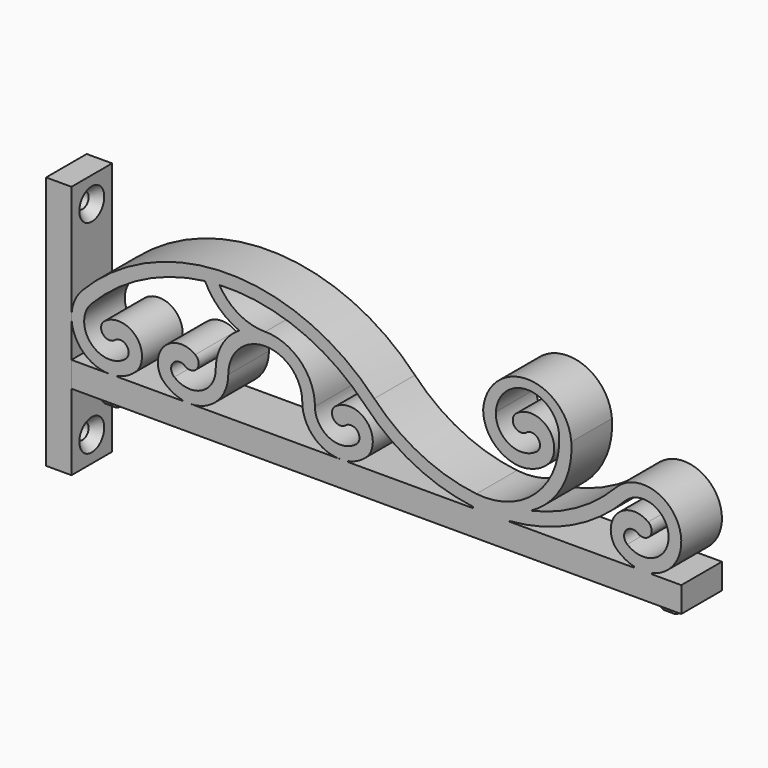
from build123d import *

# Parameters (mm, degrees)
F0_W           = 6.35
F0_H           = 63.5
F1_DEPTH       = 6.35
F2_W           = 3.937
F2_H           = 7.112
F3_DEPTH       = 4.7625
F5_D           = 3.7973
F5_CSINK_D     = 7.7978
F5_CSINK_ANGLE = 82
F8_DEPTH       = 6.35
F11_DEPTH      = 1.143
F14_DEPTH      = 1.143


with BuildPart() as f1:
    # F0 (on Front) → F1 (new body, symmetric)
    with BuildSketch(Plane.XZ):
        Rectangle(F0_W, F0_H)
    extrude(amount=F1_DEPTH, both=True)

    # F2 (on face) → F3 (cut)
    with BuildSketch(Plane(origin=(-3.175, 0, 0), x_dir=(0, -1, 0), z_dir=(-1, 0, 0))):
        with Locations((0, 9.525)):
            Rectangle(F2_W, F2_H)
        with Locations((0, -9.525)):
            Rectangle(F2_W, F2_H)
    extrude(amount=-F3_DEPTH, mode=Mode.SUBTRACT)

    # F5 (through all)
    with Locations(Plane.YZ.offset(3.175)):
        with Locations((0, 25.4), (0, -25.4)):
            CounterSinkHole(F5_D / 2, F5_CSINK_D / 2, counter_sink_angle=F5_CSINK_ANGLE)


with BuildPart() as f8:
    # F7 (on Front) → F8 (new body, symmetric)
    with BuildSketch(Plane.XZ):
        with BuildLine():
            Line((12.7, -6.35), (3.175, -6.35))
            Line((3.175, -6.35), (3.175, -12.7))
            Line((3.175, -12.7), (14.2875, -12.7))
            Line((14.2875, -12.7), (144.5625834946, -12.7))
            Line((144.5625834946, -12.7), (155.6750834946, -12.7))
            Line((155.6750834946, -12.7), (155.6750834946, -6.35))
            Line((155.6750834946, -6.35), (148.5021922939, -6.35))
            ThreePointArc((148.5021922939, -6.35), (148.3580788731, -6.2225859603), (148.4668730467, -6.0639453495))
            ThreePointArc((148.4668730467, -6.0639453495), (154.3804826295, 7.9693878732), (139.2562374816, 9.7477096504))
            ThreePointArc((139.2562374816, 9.7477096504), (129.5037806783, 2.1697253309), (117.9591642139, -2.218678791))
            ThreePointArc((117.9591642139, -2.218678791), (125.8039665063, 5.4899725627), (128.1631921853, 16.2323318424))
            ThreePointArc((128.1631921853, 16.2323318424), (117.1418442393, 26.4792205859), (106.1204962932, 16.2323318424))
            ThreePointArc((106.1204962932, 16.2323318424), (108.0823783057, 10.4422652358), (113.15983935, 7.0373802622))
            ThreePointArc((113.15983935, 7.0373802622), (115.3769972686, 6.6640863202), (117.6116000187, 6.9124573185))
            ThreePointArc((117.6116000187, 6.9124573185), (120.3939871842, 7.9753675541), (122.7120509525, 9.8456715064))
            ThreePointArc((122.7120509525, 9.8456715064), (122.1424438367, 17.5947659007), (114.3836814777, 18.0125252276))
            ThreePointArc((114.3836814777, 18.0125252276), (113.9677725127, 15.0225614527), (116.9658802281, 14.6701217141))
            ThreePointArc((116.9658802281, 14.6701217141), (119.8656217416, 14.2905119355), (119.6241447484, 11.3760148449))
            ThreePointArc((119.6241447484, 11.3760148449), (112.7414311782, 10.6691417209), (109.3043522991, 16.6739651556))
            ThreePointArc((109.3043522991, 16.6739651556), (117.2181319858, 24.1507781775), (125.1319116725, 16.6739651556))
            ThreePointArc((125.1319116725, 16.6739651556), (119.3338490751, 2.073653457), (104.4377705355, -2.9156827438))
            ThreePointArc((104.4377705355, -2.9156827438), (90.5557194512, 1.1665394412), (78.9049942328, 9.7477096504))
            ThreePointArc((78.9049942328, 9.7477096504), (42.3555749323, 25.4), (5.8061551221, 9.747710841))
            ThreePointArc((5.8061551221, 9.747710841), (3.9441249506, -0.5747036043), (12.7, -6.35))
        make_face()
        with BuildLine():
            Line((42.4040103546, -6.35), (32.8790103546, -6.35))
            ThreePointArc((32.8790103546, -6.35), (39.6048411229, -3.5550297701), (42.389479598, 3.1750851377))
            ThreePointArc((42.389479598, 3.1750851377), (51.6399365376, 12.4254141584), (60.8903083398, 3.175))
            ThreePointArc((60.8903083398, 3.175), (63.680116249, -3.5601920908), (70.4153083398, -6.35))
            Line((70.4153083398, -6.35), (60.8903083398, -6.35))
            Line((60.8903083398, -6.35), (42.4040103546, -6.35))
        make_face(mode=Mode.SUBTRACT)
        with BuildLine():
            ThreePointArc((112.7424642446, -6.20032054), (128.4134060236, -1.971230267), (141.5541869093, 7.5568072273))
            ThreePointArc((141.5541869093, 7.5568072273), (152.4866200858, 3.5882844391), (142.1622860714, -1.7666567781))
            ThreePointArc((142.1622860714, -1.7666567781), (141.8440058077, 1.2128904936), (144.8235530793, 1.5311707573))
            ThreePointArc((144.8235530793, 1.5311707573), (147.8216607947, 1.8836104959), (147.4057518297, 4.8735742709))
            ThreePointArc((147.4057518297, 4.8735742709), (139.8134554086, 4.3627142336), (139.0835288352, -3.211660336))
            ThreePointArc((139.0835288352, -3.211660336), (141.2274153025, -4.9793217297), (143.7902276315, -6.0530390824))
            ThreePointArc((143.7902276315, -6.0530390824), (143.9025099516, -6.2180002291), (143.7528584905, -6.35))
            Line((143.7528584905, -6.35), (112.74858245, -6.35))
            ThreePointArc((112.74858245, -6.35), (112.6736802251, -6.2780968852), (112.7424642446, -6.20032054))
        make_face(mode=Mode.SUBTRACT)
        with BuildLine():
            ThreePointArc((16.6877974231, -1.7666567781), (8.0283630907, -1.1259660063), (8.1041034147, 7.5568072273))
            ThreePointArc((8.1041034147, 7.5568072273), (21.09299534, 17.1794235864), (36.5627344453, 21.8691177185))
            ThreePointArc((36.5627344453, 21.8691177185), (40.1051208921, 17.0272114642), (45.1259411578, 13.7433232546))
            ThreePointArc((45.1259411578, 13.7433232546), (40.8029525277, 9.22616916), (39.229010354, 3.1750851377))
            ThreePointArc((39.229010354, 3.1750851377), (35.6176603036, -2.5540746597), (28.8912129315, -1.7666567781))
            ThreePointArc((28.8912129315, -1.7666567781), (28.5729326677, 1.2128904936), (31.5524799393, 1.5311707573))
            ThreePointArc((31.5524799393, 1.5311707573), (34.5505876548, 1.8836104959), (34.1346786898, 4.8735742709))
            ThreePointArc((34.1346786898, 4.8735742709), (26.5423822687, 4.3627142336), (25.8124556953, -3.211660336))
            ThreePointArc((25.8124556953, -3.211660336), (28.1305194636, -5.0819642883), (30.9129066291, -6.1448745239))
            ThreePointArc((30.9129066291, -6.1448745239), (30.9946251149, -6.2570794195), (30.8915056926, -6.35))
            Line((30.8915056926, -6.35), (14.687504662, -6.35))
            ThreePointArc((14.687504662, -6.35), (14.5843852397, -6.2570794195), (14.6661037255, -6.1448745239))
            ThreePointArc((14.6661037255, -6.1448745239), (17.448490891, -5.0819642883), (19.7665546593, -3.211660336))
            ThreePointArc((19.7665546593, -3.211660336), (19.0366280859, 4.3627142336), (11.4443316648, 4.8735742709))
            ThreePointArc((11.4443316648, 4.8735742709), (11.0284226998, 1.8836104959), (14.0265304153, 1.5311707573))
            ThreePointArc((14.0265304153, 1.5311707573), (17.0060776869, 1.2128904936), (16.6877974231, -1.7666567781))
        make_face(mode=Mode.SUBTRACT)
        with BuildLine():
            ThreePointArc((40.1700301412, 22.1745061888), (59.9758804335, 18.8223696543), (76.6070448051, 7.5568072273))
            ThreePointArc((76.6070448051, 7.5568072273), (88.8533362909, -1.5318616167), (103.436497444, -5.9935840749))
            ThreePointArc((103.436497444, -5.9935840749), (103.592553348, -6.1823573261), (103.4139904195, -6.35))
            Line((103.4139904195, -6.35), (72.4028130018, -6.35))
            ThreePointArc((72.4028130018, -6.35), (72.2996935795, -6.2570794195), (72.3814120653, -6.1448745239))
            ThreePointArc((72.3814120653, -6.1448745239), (75.1637992309, -5.0819642883), (77.4818629991, -3.211660336))
            ThreePointArc((77.4818629991, -3.211660336), (76.7519364257, 4.3627142336), (69.1596400046, 4.8735742709))
            ThreePointArc((69.1596400046, 4.8735742709), (68.7437310396, 1.8836104959), (71.7418387551, 1.5311707573))
            ThreePointArc((71.7418387551, 1.5311707573), (74.7213860267, 1.2128904936), (74.4031057629, -1.7666567781))
            ThreePointArc((74.4031057629, -1.7666567781), (67.6766583907, -2.5540746597), (64.0653083404, 3.1750851378))
            ThreePointArc((64.0653083404, 3.1750851378), (60.4190158784, 11.9653004079), (51.6212651489, 15.5933736315))
            ThreePointArc((51.6212651489, 15.5933736315), (45.0137626955, 17.3494514739), (40.1700301412, 22.1745061888))
        make_face(mode=Mode.SUBTRACT)
    extrude(amount=F8_DEPTH, both=True)

    # F10 (on offset) → F11 (join, symmetric)
    with BuildSketch(Plane.YZ.offset(149.3250834946)):
        with BuildLine():
            Line((-2.38125, -12.7), (-3.96875, -12.7))
            ThreePointArc((-3.96875, -12.7), (0, -16.66875), (3.96875, -12.7))
            Line((3.96875, -12.7), (2.38125, -12.7))
            ThreePointArc((2.38125, -12.7), (0, -15.08125), (-2.38125, -12.7))
        make_face()
    extrude(amount=F11_DEPTH, both=True)

    # F13 (on offset) → F14 (join, symmetric)
    with BuildSketch(Plane.YZ.offset(9.525)):
        with BuildLine():
            ThreePointArc((2.38125, -12.7), (0, -15.08125), (-2.38125, -12.7))
            Line((-2.38125, -12.7), (-3.96875, -12.7))
            ThreePointArc((-3.96875, -12.7), (0, -16.66875), (3.96875, -12.7))
            Line((3.96875, -12.7), (2.38125, -12.7))
        make_face()
    extrude(amount=F14_DEPTH, both=True)


solid = Compound([f1.part, f8.part])
